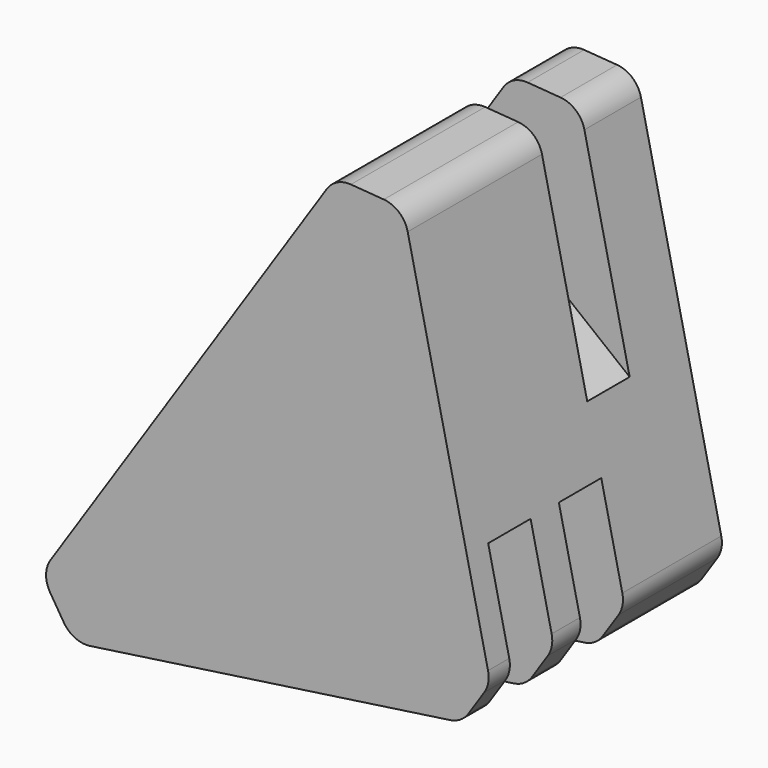
from build123d import *

# Parameters (mm, degrees)
PAD031_DEPTH = 6
PAD032_DEPTH = 6
PAD033_DEPTH = 6
PAD034_DEPTH = 6
PAD035_DEPTH = 6
PAD_DEPTH    = 33
FILLET008_R  = 3
FILLET009_R  = 3


with BuildPart() as pad031:
    # Sketch035 → Pad031 (new body)
    with BuildSketch(Plane.XZ.offset(8)):
        Polygon((-14.595035, 49.426792), (-21.11467, 37.733963), (4.396957, 17.395527), (4.396957, 50.985836), align=None)
    extrude(amount=PAD031_DEPTH)


with BuildPart() as pad032:
    # Sketch036 → Pad032 (new body)
    with BuildSketch(Plane.XZ.offset(4)):
        Polygon((-44.716217, 4.039343), (-16.086502, -8.007815), (-47.125652, -16.724289), align=None)
    extrude(amount=PAD032_DEPTH)


with BuildPart() as pad033:
    # Sketch037 → Pad033 (new body)
    with BuildSketch(Plane.XZ.offset(24)):
        Polygon((-44.716217, 4.039343), (-16.086502, -8.007815), (-47.125652, -16.724289), align=None)
    extrude(amount=PAD033_DEPTH)


with BuildPart() as pad034:
    # Sketch038 → Pad034 (new body)
    with BuildSketch(Plane.XZ.offset(14)):
        Polygon((5.367801, 13.680764), (-7.457918, 6.840382), (-11.733156, -9.120509), (13.253242, -11.590648), (11.448138, 11.685653), align=None)
    extrude(amount=PAD034_DEPTH)


with BuildPart() as pad035:
    # Sketch039 → Pad035 (new body)
    with BuildSketch(Plane.XZ.offset(24)):
        Polygon((5.367801, 13.680764), (-7.457918, 6.840382), (-11.733156, -9.120509), (13.253242, -11.590648), (11.448138, 11.685653), align=None)
    extrude(amount=PAD035_DEPTH)


with BuildPart() as cut006:
    # Sketch002 → Pad (new body)
    with BuildSketch(Plane(origin=(0, 0, 0), x_dir=(0.848048, 0, 0.529919), z_dir=(0, -1, 0))):
        Polygon((-40.765351, 19.72502), (-40.765351, 12.915253), (-0.082344, -5.035194), (5.261885, -2.605449), (20.317712, 40.085552), (14.098928, 44.660699), align=None)
    extrude(amount=PAD_DEPTH)

    # Fillet008
    fillet008_edges = [cut006.edges().sort_by_distance(p)[0] for p in [
        (-4.011709, -16.5, 44.761223),
        (-11.709995, -16.5, 45.345714),
    ]]
    fillet(fillet008_edges, radius=FILLET008_R)

    # Fillet009
    fillet009_edges = [cut006.edges().sort_by_distance(p)[0] for p in [
        (5.843009, -16.5, 0.578828),
        (2.598414, -16.5, -4.313722),
        (-41.41502, -16.5, -10.649589),
        (-45.023647, -16.5, -4.874579),
    ]]
    fillet(fillet009_edges, radius=FILLET009_R)

    # Cut002: cut Pad035
    add(pad035.part, mode=Mode.SUBTRACT)

    # Cut003: cut Pad034
    add(pad034.part, mode=Mode.SUBTRACT)

    # Cut004: cut Pad033
    add(pad033.part, mode=Mode.SUBTRACT)

    # Cut005: cut Pad032
    add(pad032.part, mode=Mode.SUBTRACT)

    # Cut006: cut Pad031
    add(pad031.part, mode=Mode.SUBTRACT)


solid = cut006.part
